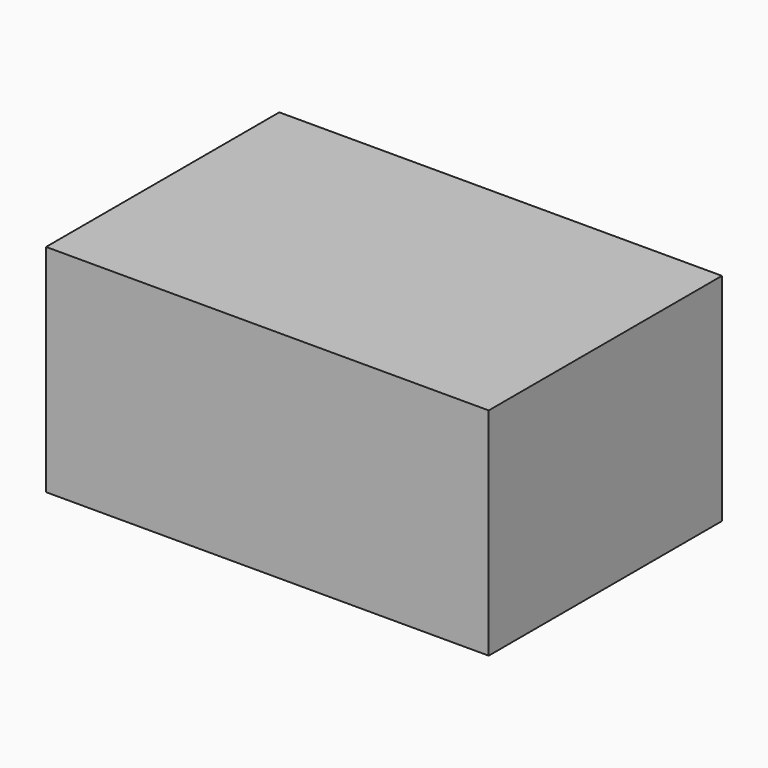
from build123d import *

# Parameters (mm, degrees)
SKETCH_W  = 2.05
SKETCH_H  = 1.35
PAD_DEPTH = 1


with BuildPart() as part:
    # Sketch → Pad (new body)
    with BuildSketch(Plane.XY):
        Rectangle(SKETCH_W, SKETCH_H)
    extrude(amount=PAD_DEPTH)


solid = part.part
